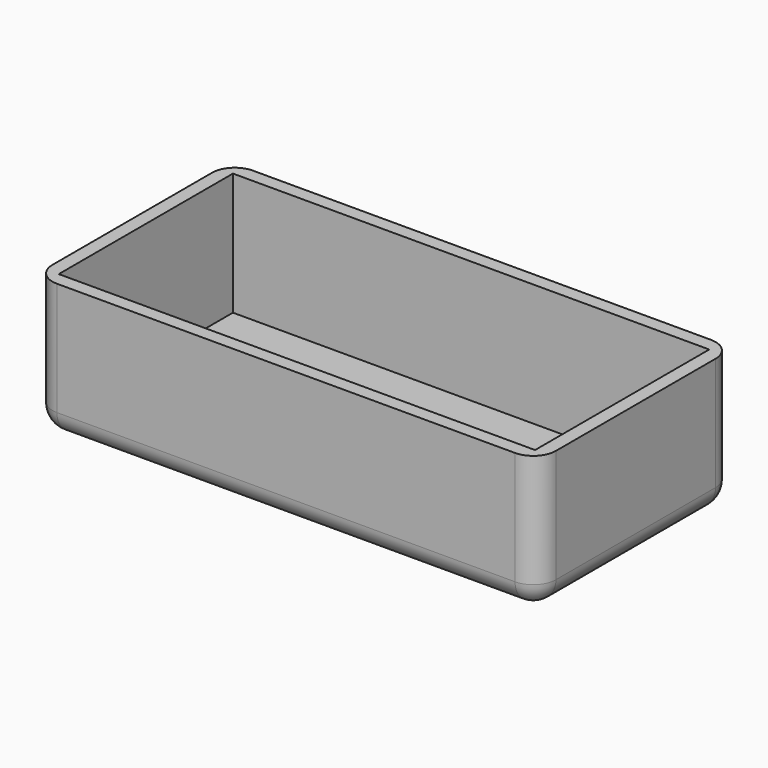
from build123d import *

# Parameters (mm, degrees)
F0_W     = 55.5
F0_H     = 27
F1_DEPTH = 15
F2_T     = -1.5
F3_R     = 2.5
F4_R     = 2.5


with BuildPart() as f1:
    # F0 (on Top) → F1 (new body)
    with BuildSketch(Plane.XY):
        Rectangle(F0_W, F0_H)
    extrude(amount=F1_DEPTH)

    # F2
    f2_openings = [f1.faces().sort_by_distance(p)[0] for p in [
        (0, 0, 15),
    ]]
    offset(amount=F2_T, openings=f2_openings)

    # F3
    f3_edges = [f1.edges().sort_by_distance(p)[0] for p in [
        (27.75, 13.5, 7.5),
        (-27.75, 13.5, 7.5),
        (27.75, -13.5, 7.5),
        (-27.75, -13.5, 7.5),
    ]]
    fillet(f3_edges, radius=F3_R)

    # F4
    f4_edges = [f1.edges().sort_by_distance(p)[0] for p in [
        (27.75, 0, 0),
        (27.017767, -12.767767, 0),
        (27.017767, 12.767767, 0),
        (0, -13.5, 0),
        (0, 13.5, 0),
        (-27.017767, -12.767767, 0),
        (-27.017767, 12.767767, 0),
        (-27.75, 0, 0),
    ]]
    fillet(f4_edges, radius=F4_R)


solid = f1.part
